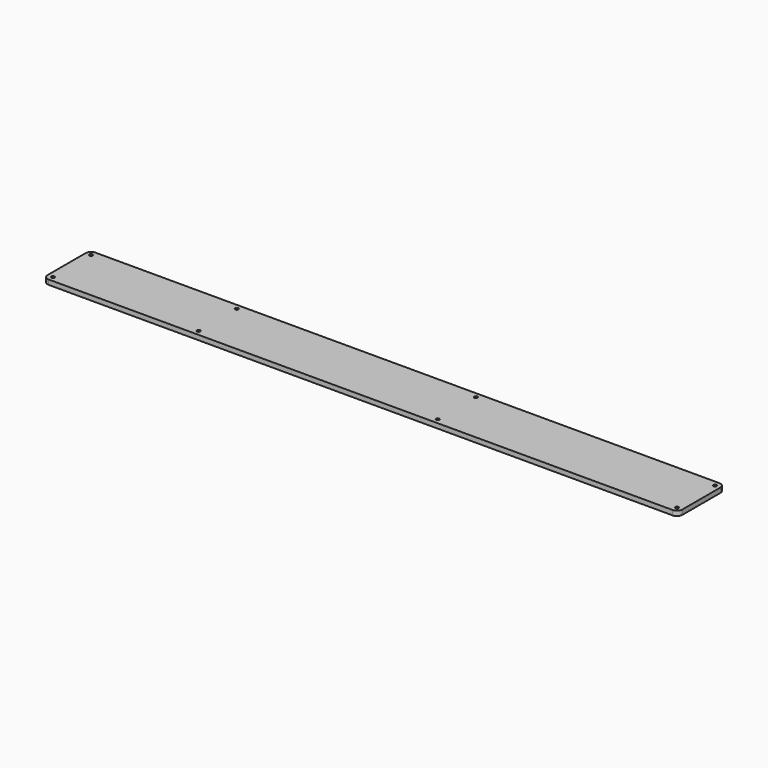
from build123d import *

# Parameters (mm, degrees)
SKETCH_R  = 0.625
PAD_DEPTH = 1.8


with BuildPart() as part:
    # Sketch → Pad (new body)
    with BuildSketch(Plane.XY):
        with BuildLine():
            Line((-119.75, 9), (-119.75, -9))
            ThreePointArc((-119.75, -9), (-119.164214, -10.414214), (-117.75, -11))
            Line((-117.75, -11), (117.75, -11))
            ThreePointArc((117.75, -11), (119.164214, -10.414214), (119.75, -9))
            Line((119.75, -9), (119.75, 9))
            ThreePointArc((119.75, 9), (119.164214, 10.414214), (117.75, 11))
            Line((117.75, 11), (-117.75, 11))
            ThreePointArc((-117.75, 11), (-119.164214, 10.414214), (-119.75, 9))
        make_face()
        with Locations((-117.75, 9)):
            Circle(SKETCH_R, mode=Mode.SUBTRACT)
        with Locations((117.75, 9)):
            Circle(SKETCH_R, mode=Mode.SUBTRACT)
        with Locations((-117.75, -9)):
            Circle(SKETCH_R, mode=Mode.SUBTRACT)
        with Locations((-62.75, 9)):
            Circle(SKETCH_R, mode=Mode.SUBTRACT)
        with Locations((-62.75, -9)):
            Circle(SKETCH_R, mode=Mode.SUBTRACT)
        with Locations((27.5, 9)):
            Circle(SKETCH_R, mode=Mode.SUBTRACT)
        with Locations((117.75, -9)):
            Circle(SKETCH_R, mode=Mode.SUBTRACT)
        with Locations((27.5, -9)):
            Circle(SKETCH_R, mode=Mode.SUBTRACT)
    extrude(amount=PAD_DEPTH)


solid = part.part
